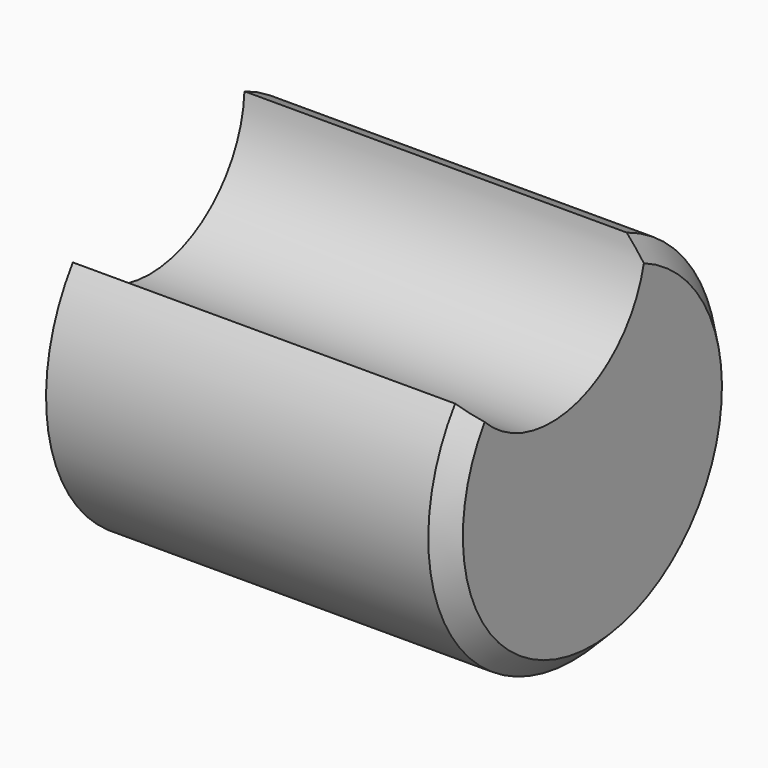
from build123d import *

# Parameters (mm, degrees)
F1_DEPTH = 106.172
F2_SIZE2 = 5.08
F2_SIZE  = 5.08


with BuildPart() as f1:
    # F0 (on Right) → F1 (new body)
    with BuildSketch(Plane.YZ):
        with BuildLine():
            ThreePointArc((17.689256, 44.514011), (-4.705364, 15.924011), (-39.042569, 27.750401))
            ThreePointArc((-39.042569, 27.750401), (13.573711, -45.936492), (17.689256, 44.514011))
        make_face()
    extrude(amount=F1_DEPTH)

    # F2
    f2_edges = [f1.edges().sort_by_distance(p)[0] for p in [
        (106.172, 13.573711, -45.936492),
    ]]
    chamfer(f2_edges, length=F2_SIZE, length2=F2_SIZE2)


solid = f1.part
